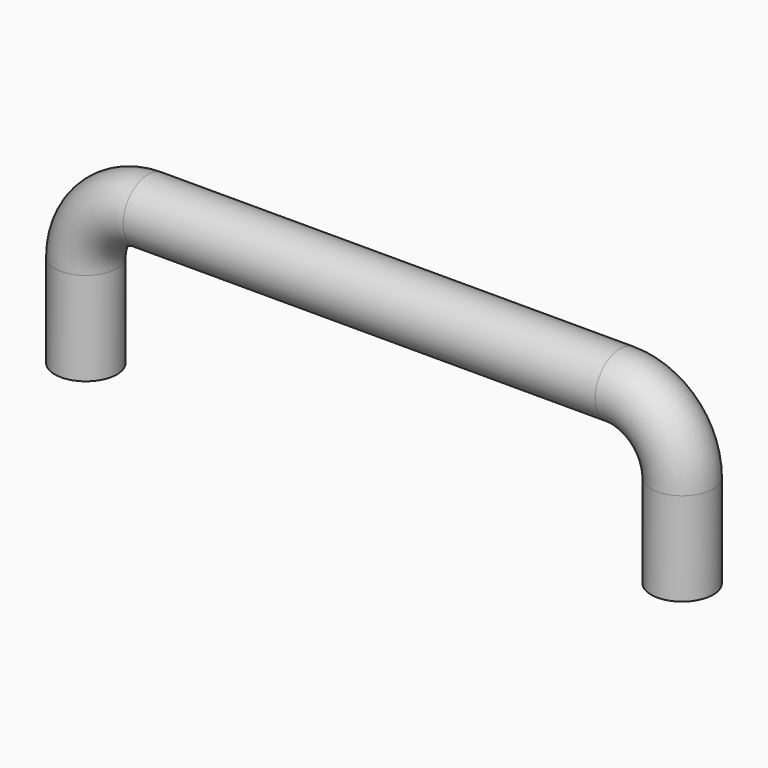
from build123d import *

# Parameters (mm, degrees)
F1_R = 5


with BuildPart() as f2:
    # F2: sweep along a path in F0
    with BuildLine(Plane.XZ) as f2_path:
        Line((0, 0), (0, 15))
        ThreePointArc((0, 15), (2.9289321881, 22.0710678119), (10, 25))
        Line((10, 25), (86, 25))
        ThreePointArc((86, 25), (93.0710678119, 22.0710678119), (96, 15))
        Line((96, 15), (96, 0))
    # F1 (on Top) → F2 (sweep)
    with BuildSketch(Plane.XY):
        Circle(F1_R)
    sweep(path=f2_path.line)


solid = f2.part
